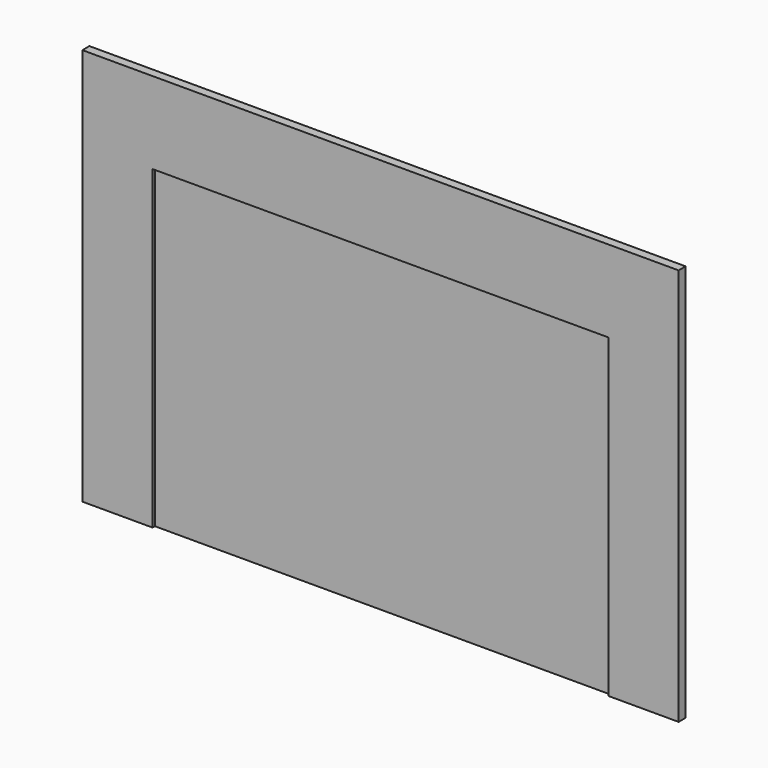
from build123d import *

# Parameters (mm, degrees)
F0_W     = 990.6
F0_H     = 685.8
F1_DEPTH = 12.7
F3_DEPTH = 19.05


with BuildPart() as f1:
    # F0 (on Front) → F1 (new body)
    with BuildSketch(Plane.XZ):
        with Locations((495.3, 342.9)):
            Rectangle(F0_W, F0_H)
    extrude(amount=F1_DEPTH)

    # F2 (on Front) → F3 (join)
    with BuildSketch(Plane.XZ):
        Polygon((-152.4, 0), (0, 0), (0, 685.8), (990.6, 685.8), (990.6, 0), (1143, 0), (1143, 863.6), (990.6, 863.6), (0, 863.6), (-152.4, 863.6), align=None)
    extrude(amount=F3_DEPTH)


solid = f1.part
